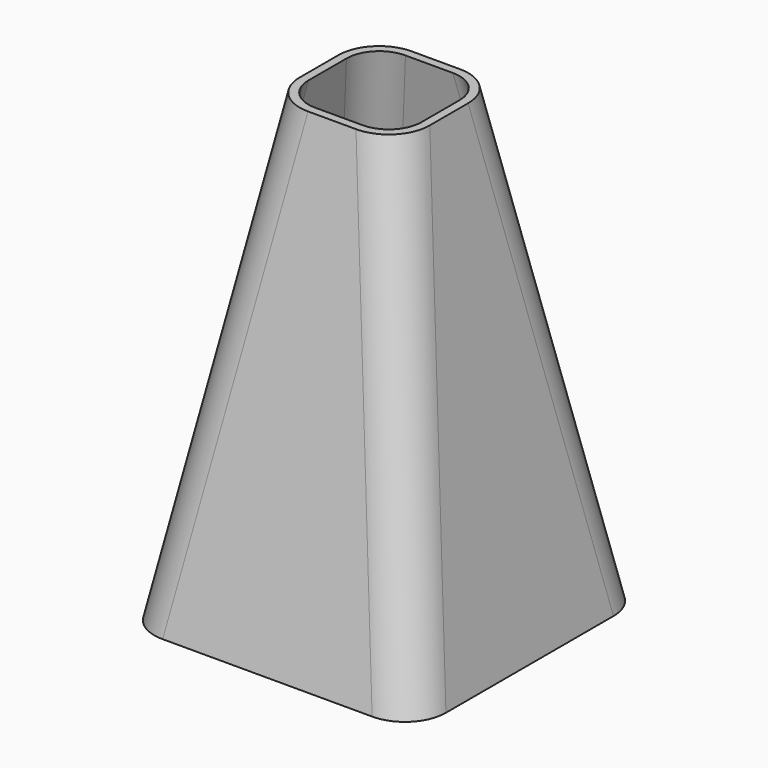
from build123d import *

# Parameters (mm, degrees)
F0_W     = 70
F0_H     = 70
F1_DEPTH = 110
F1_TAPER = 10
F2_R     = 10
F3_T     = -2


with BuildPart() as f1:
    # F0 (on Top) → F1 (new body)
    with BuildSketch(Plane.XY):
        Rectangle(F0_W, F0_H)
    extrude(amount=F1_DEPTH, taper=F1_TAPER)

    # F2
    f2_edges = [f1.edges().sort_by_distance(p)[0] for p in [
        (25.302016, -25.302016, 55),
        (25.302016, 25.302016, 55),
        (-25.302016, -25.302016, 55),
        (-25.302016, 25.302016, 55),
    ]]
    fillet(f2_edges, radius=F2_R)

    # F3
    f3_openings = [f1.faces().sort_by_distance(p)[0] for p in [
        (0, 0, 0),
        (0, 0, 110),
    ]]
    offset(amount=F3_T, openings=f3_openings)


solid = f1.part
